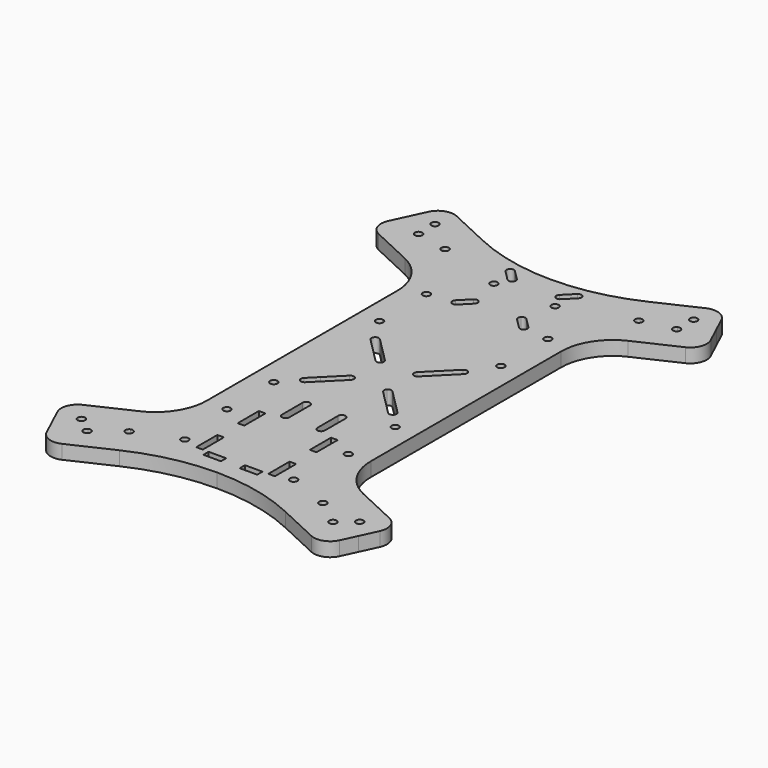
from build123d import *

# Parameters (mm, degrees)
F0_W     = 7.5
F0_H     = 2.8
F0_W_2   = 7.4999908102
F1_DEPTH = 6


with BuildPart() as f1:
    # F0 (on Top) → F1 (new body)
    with BuildSketch(Plane.XY):
        with BuildLine():
            Line((-53.7669153537, 88.6018189438), (-42.7715892813, 83.4746141924))
            ThreePointArc((-42.7715892813, 83.4746141924), (-41.8828362425, 84.2890063079), (-40.6785307545, 84.2364251947))
            Line((-40.6785307545, 84.2364251947), (-35.4274988524, 95.4972994486))
            Line((-35.4274988524, 95.4972994486), (-53.1868797041, 103.7786347439))
            ThreePointArc((-53.1868797041, 103.7786347439), (-58.5393485395, 104.0123285801), (-62.4893620455, 100.3928080668))
            Line((-62.4893620455, 100.3928080668), (-65.4476898777, 94.0486535576))
            Line((-65.4476898777, 94.0486535576), (-57.2909197944, 90.2450892019))
            Line((-57.2909197944, 90.2450892019), (-53.7669153537, 88.6018189438))
        make_face()
        with BuildLine():
            ThreePointArc((-53.6193421521, 94.7412144652), (-54.3480952689, 93.4128729381), (-55.8599659143, 93.3137797006))
            ThreePointArc((-55.8599659143, 93.3137797006), (-56.0405890352, 96.0695559924), (-53.6193421521, 94.7412144652))
        make_face(mode=Mode.SUBTRACT)
        with BuildLine():
            Line((-65.4428092946, 77.4957089198), (-47.6834284429, 69.2143736246))
            Line((-47.6834284429, 69.2143736246), (-42.009778279, 81.3815556655))
            ThreePointArc((-42.009778279, 81.3815556655), (-42.8241703945, 82.2703087044), (-42.7715892813, 83.4746141924))
            Line((-42.7715892813, 83.4746141924), (-53.7669153537, 88.6018189438))
            Line((-53.7669153537, 88.6018189438), (-57.2909197944, 90.2450892019))
            Line((-57.2909197944, 90.2450892019), (-65.4476898777, 94.0486535576))
            Line((-65.4476898777, 94.0486535576), (-68.8286359716, 86.7981912613))
            ThreePointArc((-68.8286359716, 86.7981912613), (-69.0623298079, 81.4457224258), (-65.4428092946, 77.4957089198))
        make_face()
        with BuildLine():
            ThreePointArc((-53.4840235676, 85.830883937), (-56.3873650947, 84.9846370539), (-54.3933998053, 87.2583187016))
            ThreePointArc((-54.3933998053, 87.2583187016), (-53.7306820404, 86.6771308202), (-53.4840235676, 85.830883937))
        make_face(mode=Mode.SUBTRACT)
        with BuildLine():
            Line((-47.6834284429, 69.2143736246), (-35.0000000075, 63.2999938135))
            Line((-35.0000000075, 63.2999938135), (-35.0000000075, 79.8506625979))
            Line((-35.0000000075, 79.8506625979), (-39.9167197522, 82.1433666679))
            ThreePointArc((-39.9167197522, 82.1433666679), (-40.805472791, 81.3289745524), (-42.009778279, 81.3815556655))
            Line((-42.009778279, 81.3815556655), (-47.6834284429, 69.2143736246))
        make_face()
        with BuildLine():
            Line((-35.0000000075, 49.3053938135), (-35.0000000075, 38.5391046015))
            Line((-35.0000000075, 38.5391046015), (-25.9000000075, 38.5391046015))
            Line((-25.9000000075, 38.5391046015), (-25.9000000075, 51.9640140859))
            Line((-25.9000000075, 51.9640140859), (-5.9996e-06, 51.9640140859))
            Line((-5.9996e-06, 51.9640140859), (-5.9996e-06, 69.4640140859))
            Line((-5.9996e-06, 69.4640140859), (-2.4459764016, 71.9099844879))
            Line((-2.4459764016, 71.9099844879), (-5.9996e-06, 71.9099844879))
            Line((-5.9996e-06, 71.9099844879), (-5.9996e-06, 87.6432093871))
            ThreePointArc((-5.9996e-06, 87.6432093871), (-18.1438338752, 89.6302833522), (-35.4274988524, 95.4972994486))
            Line((-35.4274988524, 95.4972994486), (-40.6785307545, 84.2364251947))
            ThreePointArc((-40.6785307545, 84.2364251947), (-40.0158129896, 83.6552373133), (-39.7691545168, 82.8089904301))
            ThreePointArc((-39.7691545168, 82.8089904301), (-39.8064883055, 82.4680980382), (-39.9167197522, 82.1433666679))
            Line((-39.9167197522, 82.1433666679), (-35.0000000075, 79.8506625979))
            Line((-35.0000000075, 79.8506625979), (-35.0000000075, 63.2999938135))
            Line((-35.0000000075, 63.2999938135), (-35.0000000075, 49.3053938135))
        make_face()
        with BuildLine():
            ThreePointArc((-24.3250000075, 53.5390140859), (-24.7863068271, 52.4253209055), (-25.9000000075, 51.9640140859))
            ThreePointArc((-25.9000000075, 51.9640140859), (-27.0136931879, 54.6527072663), (-24.3250000075, 53.5390140859))
        make_face(mode=Mode.SUBTRACT)
        with BuildLine():
            ThreePointArc((-11.3137144986, 60.3776919476), (-10.2000213182, 60.8389987673), (-9.0863281379, 60.3776919476))
            ThreePointArc((-9.0863281379, 60.3776919476), (-8.6250213182, 59.2639987673), (-9.0863281379, 58.1503055869))
            Line((-9.0863281379, 58.1503055869), (-13.328968825, 53.9076648998))
            ThreePointArc((-13.328968825, 53.9076648998), (-15.5563551857, 53.9076648998), (-15.5563551857, 56.1350512605))
            Line((-15.5563551857, 56.1350512605), (-11.3137144986, 60.3776919476))
        make_face(mode=Mode.SUBTRACT)
        with BuildLine():
            ThreePointArc((-11.4675866448, 73.4849844879), (-11.9288934644, 72.3712913075), (-13.0425866448, 71.9099844879))
            ThreePointArc((-13.0425866448, 71.9099844879), (-14.1562798251, 74.5986776682), (-11.4675866448, 73.4849844879))
        make_face(mode=Mode.SUBTRACT)
        with BuildLine():
            ThreePointArc((-9.0863281379, 80.7777225849), (-8.6250213182, 79.6640294045), (-9.0863281379, 78.5503362241))
            ThreePointArc((-9.0863281379, 78.5503362241), (-10.2000213182, 78.0890294045), (-11.3137144986, 78.5503362241))
            Line((-11.3137144986, 78.5503362241), (-15.5563551857, 82.7929769113))
            ThreePointArc((-15.5563551857, 82.7929769113), (-15.5563551857, 85.020363272), (-13.328968825, 85.020363272))
            Line((-13.328968825, 85.020363272), (-9.0863281379, 80.7777225849))
        make_face(mode=Mode.SUBTRACT)
        with BuildLine():
            Line((25.8999999925, 38.5391046015), (34.9999999925, 38.5391046015))
            Line((34.9999999925, 38.5391046015), (34.9999999925, 49.3053938135))
            Line((34.9999999925, 49.3053938135), (34.9999999925, 63.2999938135))
            Line((34.9999999925, 63.2999938135), (34.9999999925, 79.8506625979))
            Line((34.9999999925, 79.8506625979), (39.9167088758, 82.1433616031))
            ThreePointArc((39.9167088758, 82.1433616031), (39.8641277626, 83.3476670911), (40.6785198781, 84.23642013))
            Line((40.6785198781, 84.23642013), (35.427487976, 95.4972943839))
            ThreePointArc((35.427487976, 95.4972943839), (18.14382216, 89.6302807583), (-5.9996e-06, 87.6432093871))
            Line((-5.9996e-06, 87.6432093871), (-5.9996e-06, 71.9099844879))
            Line((-5.9996e-06, 71.9099844879), (2.4459644023, 71.9099844879))
            Line((2.4459644023, 71.9099844879), (-5.9996e-06, 69.4640140859))
            Line((-5.9996e-06, 69.4640140859), (-5.9996e-06, 51.9640140859))
            Line((-5.9996e-06, 51.9640140859), (25.8999999925, 51.9640140859))
            Line((25.8999999925, 51.9640140859), (25.8999999925, 38.5391046015))
        make_face()
        with BuildLine():
            ThreePointArc((9.0863161386, 58.1503055869), (8.625009319, 59.2639987673), (9.0863161386, 60.3776919476))
            ThreePointArc((9.0863161386, 60.3776919476), (10.200009319, 60.8389987673), (11.3137024994, 60.3776919476))
            Line((11.3137024994, 60.3776919476), (15.5563431865, 56.1350512605))
            ThreePointArc((15.5563431865, 56.1350512605), (15.5563431865, 53.9076648998), (13.3289568258, 53.9076648998))
            Line((13.3289568258, 53.9076648998), (9.0863161386, 58.1503055869))
        make_face(mode=Mode.SUBTRACT)
        with BuildLine():
            ThreePointArc((14.6175746456, 73.4849844879), (14.1562678259, 72.3712913075), (13.0425746456, 71.9099844879))
            ThreePointArc((13.0425746456, 71.9099844879), (11.9288814652, 74.5986776682), (14.6175746456, 73.4849844879))
        make_face(mode=Mode.SUBTRACT)
        with BuildLine():
            ThreePointArc((27.4749999925, 53.5390140859), (27.0136931729, 52.4253209055), (25.8999999925, 51.9640140859))
            ThreePointArc((25.8999999925, 51.9640140859), (24.7863068121, 54.6527072663), (27.4749999925, 53.5390140859))
        make_face(mode=Mode.SUBTRACT)
        with BuildLine():
            ThreePointArc((11.3137024994, 78.5503362241), (10.200009319, 78.0890294045), (9.0863161386, 78.5503362241))
            ThreePointArc((9.0863161386, 78.5503362241), (8.625009319, 79.6640294045), (9.0863161386, 80.7777225849))
            Line((9.0863161386, 80.7777225849), (13.3289568258, 85.020363272))
            ThreePointArc((13.3289568258, 85.020363272), (15.5563431865, 85.020363272), (15.5563431865, 82.7929769113))
            Line((15.5563431865, 82.7929769113), (11.3137024994, 78.5503362241))
        make_face(mode=Mode.SUBTRACT)
        with BuildLine():
            Line((35.427487976, 95.4972943839), (40.6785198781, 84.23642013))
            ThreePointArc((40.6785198781, 84.23642013), (41.8767348653, 84.2912038335), (42.7660559788, 83.4863259753))
            Line((42.7660559788, 83.4863259753), (53.761424778, 88.6135506505))
            Line((53.761424778, 88.6135506505), (57.2854292187, 90.2568209086))
            Line((57.2854292187, 90.2568209086), (65.442199302, 94.0603852643))
            Line((65.442199302, 94.0603852643), (62.4893456224, 100.3928004155))
            ThreePointArc((62.4893456224, 100.3928004155), (58.5393321164, 104.0123209289), (53.1868632809, 103.7786270926))
            Line((53.1868632809, 103.7786270926), (35.427487976, 95.4972943839))
        make_face()
        with BuildLine():
            ThreePointArc((56.7638515764, 94.7529461719), (56.5171931035, 93.9066992888), (55.8544753386, 93.3255114074))
            ThreePointArc((55.8544753386, 93.3255114074), (53.8605100492, 95.5991930551), (56.7638515764, 94.7529461719))
        make_face(mode=Mode.SUBTRACT)
        with BuildLine():
            Line((42.0097674026, 81.3815506008), (47.6834175665, 69.2143685598))
            Line((47.6834175665, 69.2143685598), (65.4434402671, 77.4960031541))
            ThreePointArc((65.4434402671, 77.4960031541), (69.0798944107, 81.493063568), (68.786357723, 86.8888143872))
            Line((68.786357723, 86.8888143872), (65.442199302, 94.0603852643))
            Line((65.442199302, 94.0603852643), (57.2854292187, 90.2568209086))
            Line((57.2854292187, 90.2568209086), (53.761424778, 88.6135506505))
            Line((53.761424778, 88.6135506505), (42.7660559788, 83.4863259753))
            ThreePointArc((42.7660559788, 83.4863259753), (42.8803950737, 83.1561978846), (42.9191436404, 82.8089853654))
            ThreePointArc((42.9191436404, 82.8089853654), (42.6724851675, 81.9627384822), (42.0097674026, 81.3815506008))
        make_face()
        with BuildLine():
            ThreePointArc((56.6285329919, 85.8426156438), (54.2072861087, 84.5142741166), (54.3879092296, 87.2700504083))
            ThreePointArc((54.3879092296, 87.2700504083), (55.899779875, 87.1709571709), (56.6285329919, 85.8426156438))
        make_face(mode=Mode.SUBTRACT)
        with BuildLine():
            Line((34.9999999925, 79.8506625979), (34.9999999925, 63.2999938135))
            Line((34.9999999925, 63.2999938135), (47.6834175665, 69.2143685598))
            Line((47.6834175665, 69.2143685598), (42.0097674026, 81.3815506008))
            ThreePointArc((42.0097674026, 81.3815506008), (40.8054619146, 81.3289694876), (39.9167088758, 82.1433616031))
            Line((39.9167088758, 82.1433616031), (34.9999999925, 79.8506625979))
        make_face()
        with BuildLine():
            ThreePointArc((-47.6834284429, 69.2143736246), (-38.4402468402, 61.1083236835), (-35.0000000075, 49.3053938135))
            Line((-35.0000000075, 49.3053938135), (-35.0000000075, 63.2999938135))
            Line((-35.0000000075, 63.2999938135), (-47.6834284429, 69.2143736246))
        make_face()
        with BuildLine():
            Line((34.9999999925, 63.2999938135), (34.9999999925, 49.3053938135))
            ThreePointArc((34.9999999925, 49.3053938135), (38.4402406596, 61.1083205067), (47.6834175665, 69.2143685598))
            Line((47.6834175665, 69.2143685598), (34.9999999925, 63.2999938135))
        make_face()
        Polygon((-2.4459764016, 71.9099844879), (-5.9996e-06, 69.4640140859), (-5.9996e-06, 71.9099844879), align=None)
        Polygon((-5.9996e-06, 71.9099844879), (-5.9996e-06, 69.4640140859), (2.4459644023, 71.9099844879), align=None)
        Polygon((-25.9000000075, 51.9640140859), (-25.9000000075, 38.5391046015), (25.8999999925, 38.5391046015), (25.8999999925, 51.9640140859), (-5.9996e-06, 51.9640140859), align=None)
        with BuildLine():
            Line((-25.9000000075, 26.9640140859), (-25.9000000075, -1.4608953985))
            Line((-25.9000000075, -1.4608953985), (-16.0000000075, -1.4608953985))
            Line((-16.0000000075, -1.4608953985), (-16.0000000075, 12.3117182408))
            Line((-16.0000000075, 12.3117182408), (-19.9421203164, 16.2538385497))
            ThreePointArc((-19.9421203164, 16.2538385497), (-19.9421203164, 18.4812249104), (-17.7147339557, 18.4812249104))
            Line((-17.7147339557, 18.4812249104), (-13.7726136506, 14.5391046053))
            Line((-13.7726136506, 14.5391046053), (-7.5e-09, 14.5391046016))
            Line((-7.5e-09, 14.5391046016), (13.7726136382, 14.539104608))
            Line((13.7726136382, 14.539104608), (17.7147339473, 18.4812249171))
            ThreePointArc((17.7147339473, 18.4812249171), (19.9421203043, 18.4812249134), (19.942120308, 16.2538385564))
            Line((19.942120308, 16.2538385564), (15.9999999935, 12.3117182418))
            Line((15.9999999935, 12.3117182418), (15.9999999925, -1.4608953985))
            Line((15.9999999925, -1.4608953985), (25.8999999925, -1.4608953985))
            Line((25.8999999925, -1.4608953985), (25.8999999925, 26.9640140859))
            ThreePointArc((25.8999999925, 26.9640140859), (24.3249999925, 28.5390140859), (25.8999999925, 30.1140140859))
            Line((25.8999999925, 30.1140140859), (25.8999999925, 38.5391046015))
            Line((25.8999999925, 38.5391046015), (-25.9000000075, 38.5391046015))
            Line((-25.9000000075, 38.5391046015), (-25.9000000075, 30.1140140859))
            ThreePointArc((-25.9000000075, 30.1140140859), (-24.7863068271, 29.6527072663), (-24.3250000075, 28.5390140859))
            ThreePointArc((-24.3250000075, 28.5390140859), (-24.7863068271, 27.4253209055), (-25.9000000075, 26.9640140859))
        make_face()
        with BuildLine():
            Line((-35.0000000075, 38.5391046015), (-35.0000000075, -1.4608953985))
            Line((-35.0000000075, -1.4608953985), (-25.9000000075, -1.4608953985))
            Line((-25.9000000075, -1.4608953985), (-25.9000000075, 26.9640140859))
            ThreePointArc((-25.9000000075, 26.9640140859), (-27.4750000075, 28.5390140859), (-25.9000000075, 30.1140140859))
            Line((-25.9000000075, 30.1140140859), (-25.9000000075, 38.5391046015))
            Line((-25.9000000075, 38.5391046015), (-35.0000000075, 38.5391046015))
        make_face()
        with BuildLine():
            Line((25.8999999925, -1.4608953985), (34.9999999925, -1.4608953985))
            Line((34.9999999925, -1.4608953985), (34.9999999925, 38.5391046015))
            Line((34.9999999925, 38.5391046015), (25.8999999925, 38.5391046015))
            Line((25.8999999925, 38.5391046015), (25.8999999925, 30.1140140859))
            ThreePointArc((25.8999999925, 30.1140140859), (27.0136931729, 29.6527072663), (27.4749999925, 28.5390140859))
            ThreePointArc((27.4749999925, 28.5390140859), (27.0136931729, 27.4253209055), (25.8999999925, 26.9640140859))
            Line((25.8999999925, 26.9640140859), (25.8999999925, -1.4608953985))
        make_face()
        with BuildLine():
            Line((-7.5e-09, 14.5391046016), (-7.5e-09, -1.4608953985))
            Line((-7.5e-09, -1.4608953985), (6.8863068159, 5.4254114249))
            ThreePointArc((6.8863068159, 5.4254114249), (6.4249999962, 6.5391046053), (6.8863068159, 7.6527977857))
            Line((6.8863068159, 7.6527977857), (13.7726136382, 14.539104608))
            Line((13.7726136382, 14.539104608), (-7.5e-09, 14.5391046016))
        make_face()
        with BuildLine():
            Line((-6.8863068309, 5.4254114249), (-7.5e-09, -1.4608953985))
            Line((-7.5e-09, -1.4608953985), (-7.5e-09, 14.5391046016))
            Line((-7.5e-09, 14.5391046016), (-13.7726136506, 14.5391046053))
            Line((-13.7726136506, 14.5391046053), (-6.8863068309, 7.6527977857))
            ThreePointArc((-6.8863068309, 7.6527977857), (-6.4250000113, 6.5391046053), (-6.8863068309, 5.4254114249))
        make_face()
        with BuildLine():
            Line((-16.0000000075, 12.3117182408), (-16.0000000075, -1.4608953985))
            Line((-16.0000000075, -1.4608953985), (-7.5e-09, -1.4608953985))
            Line((-7.5e-09, -1.4608953985), (-6.8863068309, 5.4254114249))
            ThreePointArc((-6.8863068309, 5.4254114249), (-8.0000000113, 4.9641046053), (-9.1136931916, 5.4254114249))
            Line((-9.1136931916, 5.4254114249), (-16.0000000075, 12.3117182408))
        make_face()
        with BuildLine():
            Line((-7.5e-09, -1.4608953985), (15.9999999925, -1.4608953985))
            Line((15.9999999925, -1.4608953985), (15.9999999935, 12.3117182418))
            Line((15.9999999935, 12.3117182418), (9.1136931766, 5.4254114249))
            ThreePointArc((9.1136931766, 5.4254114249), (7.9999999962, 4.9641046053), (6.8863068159, 5.4254114249))
            Line((6.8863068159, 5.4254114249), (-7.5e-09, -1.4608953985))
        make_face()
        with BuildLine():
            Line((15.9999999925, -15.2335090377), (15.9999999925, -1.4608953985))
            Line((15.9999999925, -1.4608953985), (-7.5e-09, -1.4608953985))
            Line((-7.5e-09, -1.4608953985), (6.8863068159, -8.3472022219))
            ThreePointArc((6.8863068159, -8.3472022219), (7.9999999936, -7.8858954022), (9.1136931729, -8.3472022181))
            Line((9.1136931729, -8.3472022181), (15.9999999925, -15.2335090377))
        make_face()
        with BuildLine():
            Line((6.8863068159, -8.3472022219), (-7.5e-09, -1.4608953985))
            Line((-7.5e-09, -1.4608953985), (-7.5e-09, -17.4608953985))
            Line((-7.5e-09, -17.4608953985), (13.7726136356, -17.4608954023))
            Line((13.7726136356, -17.4608954023), (6.8863068159, -10.5745885826))
            ThreePointArc((6.8863068159, -10.5745885826), (6.4249999963, -9.4608954022), (6.8863068159, -8.3472022219))
        make_face()
        with BuildLine():
            Line((-7.5e-09, -17.4608953985), (-7.5e-09, -1.4608953985))
            Line((-7.5e-09, -1.4608953985), (-6.8863068325, -8.3472022202))
            ThreePointArc((-6.8863068325, -8.3472022202), (-6.4250000131, -9.4608954005), (-6.8863068328, -10.5745885807))
            Line((-6.8863068328, -10.5745885807), (-13.7726136552, -17.4608953999))
            Line((-13.7726136552, -17.4608953999), (-7.5e-09, -17.4608953985))
        make_face()
        with BuildLine():
            Line((-7.5e-09, -1.4608953985), (-16.0000000075, -1.4608953985))
            Line((-16.0000000075, -1.4608953985), (-16.000000014, -15.2335090372))
            Line((-16.000000014, -15.2335090372), (-9.1136931914, -8.3472022178))
            ThreePointArc((-9.1136931914, -8.3472022178), (-8.0000000114, -7.8858954003), (-6.8863068325, -8.3472022202))
            Line((-6.8863068325, -8.3472022202), (-7.5e-09, -1.4608953985))
        make_face()
        with BuildLine():
            Line((-35.0000000075, -41.4608953985), (-25.9000000075, -41.4608953985))
            Line((-25.9000000075, -41.4608953985), (-25.9000000075, -29.4359880942))
            ThreePointArc((-25.9000000075, -29.4359880942), (-27.4750000075, -27.8609880942), (-25.9000000075, -26.2859880942))
            Line((-25.9000000075, -26.2859880942), (-25.9000000075, -1.4608953985))
            Line((-25.9000000075, -1.4608953985), (-35.0000000075, -1.4608953985))
            Line((-35.0000000075, -1.4608953985), (-35.0000000075, -41.4608953985))
        make_face()
        with BuildLine():
            Line((-25.9000000075, -29.4359880942), (-25.9000000075, -41.4608953985))
            Line((-25.9000000075, -41.4608953985), (-9.1500000075, -41.4608953985))
            Line((-9.1500000075, -41.4608953985), (-9.1500000075, -33.4608953985))
            ThreePointArc((-9.1500000075, -33.4608953985), (-7.5750000075, -31.8858953985), (-6.0000000075, -33.4608953985))
            Line((-6.0000000075, -33.4608953985), (-6.0000000075, -41.4608953985))
            Line((-6.0000000075, -41.4608953985), (5.9999999925, -41.4608953985))
            Line((5.9999999925, -41.4608953985), (5.9999999925, -33.4608953985))
            ThreePointArc((5.9999999925, -33.4608953985), (7.5749999925, -31.8858953985), (9.1499999925, -33.4608953985))
            Line((9.1499999925, -33.4608953985), (9.1499999925, -41.4608953985))
            Line((9.1499999925, -41.4608953985), (25.8999999925, -41.4608953985))
            Line((25.8999999925, -41.4608953985), (25.8999999925, -29.4359880942))
            ThreePointArc((25.8999999925, -29.4359880942), (24.3249999925, -27.8609880942), (25.8999999925, -26.2859880942))
            Line((25.8999999925, -26.2859880942), (25.8999999925, -1.4608953985))
            Line((25.8999999925, -1.4608953985), (15.9999999925, -1.4608953985))
            Line((15.9999999925, -1.4608953985), (15.9999999925, -15.2335090377))
            Line((15.9999999925, -15.2335090377), (19.9421202976, -19.1756293428))
            ThreePointArc((19.9421202976, -19.1756293428), (19.9421202976, -21.4030157036), (17.7147339369, -21.4030157036))
            Line((17.7147339369, -21.4030157036), (13.7726136356, -17.4608954023))
            Line((13.7726136356, -17.4608954023), (-7.5e-09, -17.4608953985))
            Line((-7.5e-09, -17.4608953985), (-13.7726136552, -17.4608953999))
            Line((-13.7726136552, -17.4608953999), (-17.7147339638, -21.4030157066))
            ThreePointArc((-17.7147339638, -21.4030157066), (-19.9421203247, -21.4030157065), (-19.9421203243, -19.1756293457))
            Line((-19.9421203243, -19.1756293457), (-16.000000014, -15.2335090372))
            Line((-16.000000014, -15.2335090372), (-16.0000000075, -1.4608953985))
            Line((-16.0000000075, -1.4608953985), (-25.9000000075, -1.4608953985))
            Line((-25.9000000075, -1.4608953985), (-25.9000000075, -26.2859880942))
            ThreePointArc((-25.9000000075, -26.2859880942), (-24.7863068271, -26.7472949138), (-24.3250000075, -27.8609880942))
            ThreePointArc((-24.3250000075, -27.8609880942), (-24.7863068271, -28.9746812746), (-25.9000000075, -29.4359880942))
        make_face()
        with BuildLine():
            Line((25.8999999925, -29.4359880942), (25.8999999925, -41.4608953985))
            Line((25.8999999925, -41.4608953985), (34.9999999925, -41.4608953985))
            Line((34.9999999925, -41.4608953985), (34.9999999925, -1.4608953985))
            Line((34.9999999925, -1.4608953985), (25.8999999925, -1.4608953985))
            Line((25.8999999925, -1.4608953985), (25.8999999925, -26.2859880942))
            ThreePointArc((25.8999999925, -26.2859880942), (27.0136931729, -26.7472949139), (27.4749999925, -27.8609880942))
            ThreePointArc((27.4749999925, -27.8609880942), (27.0136931729, -28.9746812746), (25.8999999925, -29.4359880942))
        make_face()
        with BuildLine():
            Line((-7.5e-09, -83.4609880942), (-4.1054e-06, -80.270659803))
            Line((-4.1054e-06, -80.270659803), (-4.6024e-06, -54.4359880942))
            Line((-4.6024e-06, -54.4359880942), (-14.0000000075, -54.4359880942))
            Line((-14.0000000075, -54.4359880942), (-14.0000000075, -58.5109880942))
            Line((-14.0000000075, -58.5109880942), (-16.8000046024, -58.5109880942))
            Line((-16.8000046024, -58.5109880942), (-16.8000046024, -54.4359880942))
            Line((-16.8000046024, -54.4359880942), (-25.9000000075, -54.4359880942))
            ThreePointArc((-25.9000000075, -54.4359880942), (-27.4750000075, -52.8609880942), (-25.9000000075, -51.2859880942))
            Line((-25.9000000075, -51.2859880942), (-25.9000000075, -41.4608953985))
            Line((-25.9000000075, -41.4608953985), (-35.0000000075, -41.4608953985))
            Line((-35.0000000075, -41.4608953985), (-35.0000000075, -52.2271846104))
            Line((-35.0000000075, -52.2271846104), (-35.0000000075, -66.2217846104))
            Line((-35.0000000075, -66.2217846104), (-35.0000000075, -82.7724533949))
            Line((-35.0000000075, -82.7724533949), (-39.9167197522, -85.0651574648))
            ThreePointArc((-39.9167197522, -85.0651574648), (-39.8064883055, -85.3898888351), (-39.7691545168, -85.7307812271))
            ThreePointArc((-39.7691545168, -85.7307812271), (-40.0158129896, -86.5770281102), (-40.6785307545, -87.1582159916))
            Line((-40.6785307545, -87.1582159916), (-35.4274988524, -98.4190902456))
            ThreePointArc((-35.4274988524, -98.4190902456), (-18.1438306626, -92.5520754698), (-7.5e-09, -90.5650028409))
            Line((-7.5e-09, -90.5650028409), (-7.5e-09, -83.4609880942))
        make_face()
        with Locations((-7.7500046024, -82.0609880942)):
            Rectangle(F0_W, F0_H, mode=Mode.SUBTRACT)
        with BuildLine():
            ThreePointArc((-21.6596700075, -78.695659803), (-22.1209787044, -79.8093548606), (-23.2346753172, -80.270659803))
            ThreePointArc((-23.2346753172, -80.270659803), (-24.3483613106, -77.5819647454), (-21.6596700075, -78.695659803))
        make_face(mode=Mode.SUBTRACT)
        Polygon((-16.8000046024, -80.270659803), (-16.8000046024, -69.3609880942), (-14.0000046024, -69.3609880942), (-14.0000046024, -80.270659803), (-14.0000046024, -80.6609880942), (-16.8000046024, -80.6609880942), align=None, mode=Mode.SUBTRACT)
        with BuildLine():
            Line((-14.0000000075, -54.4359880942), (-4.6024e-06, -54.4359880942))
            Line((-4.6024e-06, -54.4359880942), (13.9999999925, -54.4359880942))
            Line((13.9999999925, -54.4359880942), (13.9999999925, -47.2109880942))
            Line((13.9999999925, -47.2109880942), (16.7999953976, -47.2109880942))
            Line((16.7999953976, -47.2109880942), (16.7999953976, -54.4359880942))
            Line((16.7999953976, -54.4359880942), (25.8999953976, -54.4359880942))
            ThreePointArc((25.8999953976, -54.4359880942), (24.3249999925, -52.8609857968), (25.8999999925, -51.2859880942))
            Line((25.8999999925, -51.2859880942), (25.8999999925, -41.4608953985))
            Line((25.8999999925, -41.4608953985), (9.1499999925, -41.4608953985))
            Line((9.1499999925, -41.4608953985), (9.1499999925, -44.4608953985))
            ThreePointArc((9.1499999925, -44.4608953985), (7.5749999925, -46.0358953985), (5.9999999925, -44.4608953985))
            Line((5.9999999925, -44.4608953985), (5.9999999925, -41.4608953985))
            Line((5.9999999925, -41.4608953985), (-6.0000000075, -41.4608953985))
            Line((-6.0000000075, -41.4608953985), (-6.0000000075, -44.4608953985))
            ThreePointArc((-6.0000000075, -44.4608953985), (-7.5750000075, -46.0358953985), (-9.1500000075, -44.4608953985))
            Line((-9.1500000075, -44.4608953985), (-9.1500000075, -41.4608953985))
            Line((-9.1500000075, -41.4608953985), (-25.9000000075, -41.4608953985))
            Line((-25.9000000075, -41.4608953985), (-25.9000000075, -51.2859880942))
            ThreePointArc((-25.9000000075, -51.2859880942), (-24.7863068271, -51.7472949138), (-24.3250000075, -52.8609880942))
            ThreePointArc((-24.3250000075, -52.8609880942), (-24.7863068271, -53.9746812746), (-25.9000000075, -54.4359880942))
            Line((-25.9000000075, -54.4359880942), (-16.8000046024, -54.4359880942))
            Line((-16.8000046024, -54.4359880942), (-16.8000046024, -47.2109880942))
            Line((-16.8000046024, -47.2109880942), (-14.0000000075, -47.2109880942))
            Line((-14.0000000075, -47.2109880942), (-14.0000000075, -54.4359880942))
        make_face()
        with BuildLine():
            Line((-4.6024e-06, -54.4359880942), (-4.1054e-06, -80.270659803))
            Line((-4.1054e-06, -80.270659803), (-7.5e-09, -83.4609880942))
            Line((-7.5e-09, -83.4609880942), (-7.5e-09, -90.5650028409))
            ThreePointArc((-7.5e-09, -90.5650028409), (18.1438306476, -92.5520754698), (35.4274988374, -98.4190902456))
            Line((35.4274988374, -98.4190902456), (40.6785307395, -87.1582159916))
            ThreePointArc((40.6785307395, -87.1582159916), (39.864138624, -86.2694629528), (39.9167197372, -85.0651574648))
            Line((39.9167197372, -85.0651574648), (34.9999999925, -82.7724533949))
            Line((34.9999999925, -82.7724533949), (34.9999999925, -66.2217846104))
            Line((34.9999999925, -66.2217846104), (34.9999999925, -52.2271846104))
            Line((34.9999999925, -52.2271846104), (34.9999999925, -41.4608953985))
            Line((34.9999999925, -41.4608953985), (25.8999999925, -41.4608953985))
            Line((25.8999999925, -41.4608953985), (25.8999999925, -51.2859880942))
            ThreePointArc((25.8999999925, -51.2859880942), (27.0136931729, -51.7472949139), (27.4749999925, -52.8609880942))
            ThreePointArc((27.4749999925, -52.8609880942), (27.0136915483, -53.9746828991), (25.8999953976, -54.4359880942))
            Line((25.8999953976, -54.4359880942), (16.7999953976, -54.4359880942))
            Line((16.7999953976, -54.4359880942), (16.7999953976, -58.5109880942))
            Line((16.7999953976, -58.5109880942), (13.9999999925, -58.5109880942))
            Line((13.9999999925, -58.5109880942), (13.9999999925, -54.4359880942))
            Line((13.9999999925, -54.4359880942), (-4.6024e-06, -54.4359880942))
        make_face()
        with Locations((7.7499999925, -82.0609880942)):
            Rectangle(F0_W_2, F0_H, mode=Mode.SUBTRACT)
        Polygon((13.9999953976, -80.6609880942), (13.9999953976, -80.270659803), (13.9999953976, -69.3609880942), (16.7999953976, -69.3609880942), (16.7999953976, -80.270659803), (16.7999953976, -80.6609880942), align=None, mode=Mode.SUBTRACT)
        with BuildLine():
            ThreePointArc((24.8096671064, -78.695659803), (24.3483602868, -79.8093529834), (23.2346671064, -80.270659803))
            ThreePointArc((23.2346671064, -80.270659803), (22.120973926, -77.5819666226), (24.8096671064, -78.695659803))
        make_face(mode=Mode.SUBTRACT)
        with BuildLine():
            Line((34.9999999925, -66.2217846104), (47.6834284279, -72.1361644215))
            ThreePointArc((47.6834284279, -72.1361644215), (38.4402468252, -64.0301144805), (34.9999999925, -52.2271846104))
            Line((34.9999999925, -52.2271846104), (34.9999999925, -66.2217846104))
        make_face()
        with BuildLine():
            ThreePointArc((-35.0000000075, -52.2271846104), (-38.4402468402, -64.0301144805), (-47.6834284429, -72.1361644215))
            Line((-47.6834284429, -72.1361644215), (-35.0000000075, -66.2217846104))
            Line((-35.0000000075, -66.2217846104), (-35.0000000075, -52.2271846104))
        make_face()
        with BuildLine():
            Line((-47.6834284429, -72.1361644215), (-42.009778279, -84.3033464625))
            ThreePointArc((-42.009778279, -84.3033464625), (-40.805472791, -84.2507653493), (-39.9167197522, -85.0651574648))
            Line((-39.9167197522, -85.0651574648), (-35.0000000075, -82.7724533949))
            Line((-35.0000000075, -82.7724533949), (-35.0000000075, -66.2217846104))
            Line((-35.0000000075, -66.2217846104), (-47.6834284429, -72.1361644215))
        make_face()
        with BuildLine():
            Line((-53.7801320569, -91.4952028734), (-42.7845478683, -86.3678777603))
            ThreePointArc((-42.7845478683, -86.3678777603), (-42.8187389975, -85.1774046743), (-42.009778279, -84.3033464625))
            Line((-42.009778279, -84.3033464625), (-47.6834284429, -72.1361644215))
            Line((-47.6834284429, -72.1361644215), (-65.4427849513, -80.4174883653))
            ThreePointArc((-65.4427849513, -80.4174883653), (-69.0623054646, -84.3675018713), (-68.8286116284, -89.7199707067))
            Line((-68.8286116284, -89.7199707067), (-65.460906581, -96.9420374871))
            Line((-65.460906581, -96.9420374871), (-57.3041364976, -93.1384731314))
            Line((-57.3041364976, -93.1384731314), (-53.7801320569, -91.4952028734))
        make_face()
        with BuildLine():
            ThreePointArc((-57.82571414, -88.6423478681), (-58.0723726128, -89.4885947513), (-58.7350903777, -90.0697826327))
            ThreePointArc((-58.7350903777, -90.0697826327), (-60.7290556671, -87.796100985), (-57.82571414, -88.6423478681))
        make_face(mode=Mode.SUBTRACT)
        with BuildLine():
            Line((-53.186871934, -106.7004219176), (-35.4274988524, -98.4190902456))
            Line((-35.4274988524, -98.4190902456), (-40.6785307545, -87.1582159916))
            ThreePointArc((-40.6785307545, -87.1582159916), (-41.8975310695, -87.2053657078), (-42.7845478683, -86.3678777603))
            Line((-42.7845478683, -86.3678777603), (-53.7801320569, -91.4952028734))
            Line((-53.7801320569, -91.4952028734), (-57.3041364976, -93.1384731314))
            Line((-57.3041364976, -93.1384731314), (-65.460906581, -96.9420374871))
            Line((-65.460906581, -96.9420374871), (-62.496099741, -103.3000862734))
            ThreePointArc((-62.496099741, -103.3000862734), (-58.5468569147, -106.9313752357), (-53.186871934, -106.7004219176))
        make_face()
        with BuildLine():
            ThreePointArc((-50.913023843, -94.2661378801), (-53.3342707262, -95.5944794073), (-53.1536476053, -92.8387031156))
            ThreePointArc((-53.1536476053, -92.8387031156), (-51.6417769599, -92.937796353), (-50.913023843, -94.2661378801))
        make_face(mode=Mode.SUBTRACT)
        with BuildLine():
            Line((34.9999999925, -82.7724533949), (39.9167197372, -85.0651574648))
            ThreePointArc((39.9167197372, -85.0651574648), (40.805472776, -84.2507653493), (42.009778264, -84.3033464625))
            Line((42.009778264, -84.3033464625), (47.6834284279, -72.1361644215))
            Line((47.6834284279, -72.1361644215), (34.9999999925, -66.2217846104))
            Line((34.9999999925, -66.2217846104), (34.9999999925, -82.7724533949))
        make_face()
        with BuildLine():
            ThreePointArc((42.9191545018, -85.7307812271), (42.881820713, -86.071673619), (42.7715892663, -86.3964049893))
            Line((42.7715892663, -86.3964049893), (53.7669153387, -91.5236097407))
            Line((53.7669153387, -91.5236097407), (57.2909197794, -93.1668799988))
            Line((57.2909197794, -93.1668799988), (65.4476898627, -96.9704443545))
            Line((65.4476898627, -96.9704443545), (68.8286359538, -89.7199820644))
            ThreePointArc((68.8286359538, -89.7199820644), (69.062329794, -84.3675132259), (65.4428092796, -80.4174997168))
            Line((65.4428092796, -80.4174997168), (47.6834284279, -72.1361644215))
            Line((47.6834284279, -72.1361644215), (42.009778264, -84.3033464625))
            ThreePointArc((42.009778264, -84.3033464625), (42.6724960289, -84.8845343439), (42.9191545018, -85.7307812271))
        make_face()
        with BuildLine():
            ThreePointArc((60.9624974217, -88.6707547355), (60.2337443048, -89.9990962627), (58.7218736594, -90.0981895001))
            ThreePointArc((58.7218736594, -90.0981895001), (58.5412505385, -87.3424132083), (60.9624974217, -88.6707547355))
        make_face(mode=Mode.SUBTRACT)
        with BuildLine():
            Line((40.6785307395, -87.1582159916), (35.4274988374, -98.4190902456))
            Line((35.4274988374, -98.4190902456), (53.1868796891, -106.7004255408))
            ThreePointArc((53.1868796891, -106.7004255408), (58.5393485277, -106.9341193759), (62.4893620334, -103.3145988576))
            Line((62.4893620334, -103.3145988576), (65.4476898627, -96.9704443545))
            Line((65.4476898627, -96.9704443545), (57.2909197794, -93.1668799988))
            Line((57.2909197794, -93.1668799988), (53.7669153387, -91.5236097407))
            Line((53.7669153387, -91.5236097407), (42.7715892663, -86.3964049893))
            ThreePointArc((42.7715892663, -86.3964049893), (41.8828362275, -87.2107971048), (40.6785307395, -87.1582159916))
        make_face()
        with BuildLine():
            ThreePointArc((54.0498071248, -94.2945447475), (51.1464655976, -95.1407916307), (53.140430887, -92.8671099829))
            ThreePointArc((53.140430887, -92.8671099829), (53.8031486519, -93.4482978644), (54.0498071248, -94.2945447475))
        make_face(mode=Mode.SUBTRACT)
    extrude(amount=F1_DEPTH)


solid = f1.part
